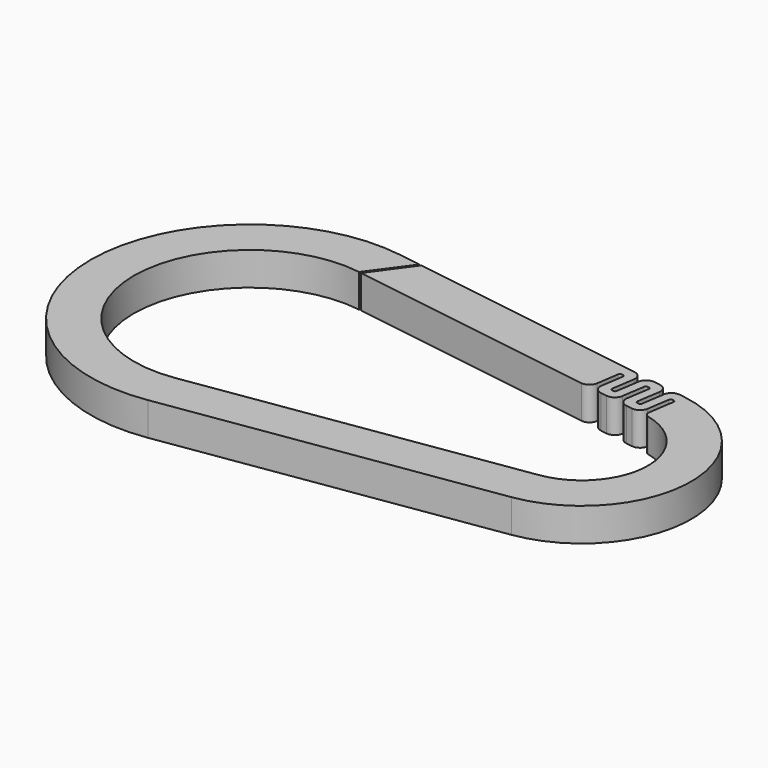
from build123d import *

# Parameters (mm, degrees)
F1_DEPTH = 5


with BuildPart() as f1:
    # F0 (on Top) → F1 (new body)
    with BuildSketch(Plane.XY):
        with BuildLine():
            ThreePointArc((2.228239, 9.748587), (9.993129, -0.370625), (1.5, -9.88686))
            Line((1.5, -9.88686), (-47.375, -17.302005))
            ThreePointArc((-47.375, -17.302005), (-67.5, 0), (-47.375, 17.302005))
            Line((-47.375, 17.302005), (-43.059372, 23.221635))
            Line((-43.059372, 23.221635), (-46.4, 23.728464))
            ThreePointArc((-46.4, 23.728464), (-74, 0), (-46.4, -23.728464))
            Line((-46.4, -23.728464), (2.475, -16.313319))
            ThreePointArc((2.475, -16.313319), (16.5, 0), (2.475, 16.313319))
            Line((2.475, 16.313319), (1.585183, 16.448319))
            ThreePointArc((1.585183, 16.448319), (0.61923, 16.209752), (0.104891, 15.358027))
            Line((0.104891, 15.358027), (-0.420109, 11.897626))
            ThreePointArc((-0.420109, 11.897626), (-0.538803, 11.701074), (-0.761715, 11.64602))
            Line((-0.761715, 11.64602), (-0.959452, 11.67602))
            ThreePointArc((-0.959452, 11.67602), (-1.156004, 11.794714), (-1.211058, 12.017626))
            Line((-1.211058, 12.017626), (-0.686058, 15.478027))
            ThreePointArc((-0.686058, 15.478027), (-0.924625, 16.44398), (-1.77635, 16.958319))
            Line((-1.77635, 16.958319), (-2.765036, 17.108319))
            ThreePointArc((-2.765036, 17.108319), (-3.730989, 16.869752), (-4.245328, 16.018027))
            Line((-4.245328, 16.018027), (-4.770328, 12.557626))
            ThreePointArc((-4.770328, 12.557626), (-4.889021, 12.361074), (-5.111933, 12.30602))
            Line((-5.111933, 12.30602), (-5.309671, 12.33602))
            ThreePointArc((-5.309671, 12.33602), (-5.506222, 12.454714), (-5.561276, 12.677626))
            Line((-5.561276, 12.677626), (-5.036276, 16.138027))
            ThreePointArc((-5.036276, 16.138027), (-5.274844, 17.10398), (-6.126568, 17.618319))
            Line((-6.126568, 17.618319), (-42.725086, 23.170919))
            Line((-42.725086, 23.170919), (-47.040714, 17.251288))
            Line((-47.040714, 17.251288), (-9.276677, 11.52186))
            ThreePointArc((-9.276677, 11.52186), (-8.310725, 11.760427), (-7.796386, 12.612152))
            Line((-7.796386, 12.612152), (-7.286386, 15.973684))
            ThreePointArc((-7.286386, 15.973684), (-7.167692, 16.170236), (-6.94478, 16.22529))
            Line((-6.94478, 16.22529), (-6.747043, 16.19529))
            ThreePointArc((-6.747043, 16.19529), (-6.550491, 16.076596), (-6.495437, 15.853684))
            Line((-6.495437, 15.853684), (-7.005437, 12.492152))
            ThreePointArc((-7.005437, 12.492152), (-6.766869, 11.526199), (-5.915145, 11.01186))
            Line((-5.915145, 11.01186), (-4.926459, 10.86186))
            ThreePointArc((-4.926459, 10.86186), (-3.960506, 11.100427), (-3.446167, 11.952152))
            Line((-3.446167, 11.952152), (-2.921167, 15.412553))
            ThreePointArc((-2.921167, 15.412553), (-2.802474, 15.609105), (-2.579561, 15.664159))
            Line((-2.579561, 15.664159), (-2.381824, 15.634159))
            ThreePointArc((-2.381824, 15.634159), (-2.185272, 15.515465), (-2.130218, 15.292553))
            Line((-2.130218, 15.292553), (-2.655218, 11.832152))
            ThreePointArc((-2.655218, 11.832152), (-2.416651, 10.866199), (-1.564927, 10.35186))
            Line((-1.564927, 10.35186), (-0.576241, 10.20186))
            ThreePointArc((-0.576241, 10.20186), (0.389712, 10.440427), (0.904051, 11.292152))
            Line((0.904051, 11.292152), (1.414051, 14.653684))
            ThreePointArc((1.414051, 14.653684), (1.532745, 14.850236), (1.755657, 14.90529))
            Line((1.755657, 14.90529), (1.953394, 14.87529))
            ThreePointArc((1.953394, 14.87529), (2.149946, 14.756596), (2.205, 14.533684))
            Line((2.205, 14.533684), (1.615549, 10.648474))
            ThreePointArc((1.615549, 10.648474), (1.745219, 10.078241), (2.228239, 9.748587))
        make_face()
    extrude(amount=F1_DEPTH)


solid = f1.part
